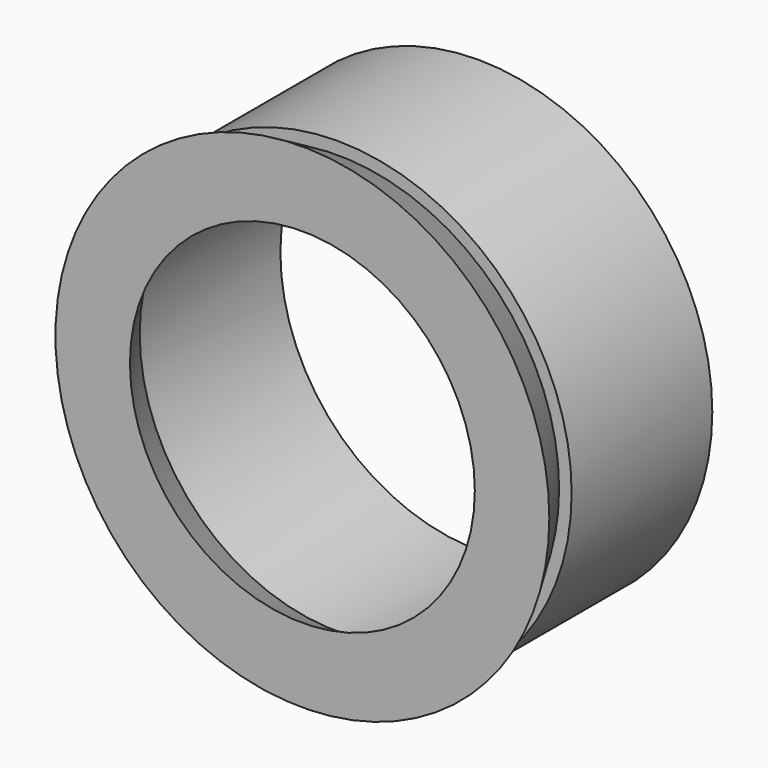
from build123d import *

# Parameters (mm, degrees)
F0_R     = 532.5
F1_DEPTH = 400
F2_R     = 450
F3_DEPTH = 400
F4_R     = 504
F4_R_2   = 450
F5_DEPTH = 100
F5_TAPER = -30


with BuildPart() as f1:
    # F0 (on Front) → F1 (new body)
    with BuildSketch(Plane.XZ):
        Circle(F0_R)
    extrude(amount=F1_DEPTH)

    # F2 (on face) → F3 (cut)
    with BuildSketch(Plane.XZ.offset(400)):
        Circle(F2_R)
    extrude(amount=-F3_DEPTH, mode=Mode.SUBTRACT)

    # F4 (on face) → F5 (join)
    with BuildSketch(Plane.XZ.offset(400)):
        Circle(F4_R)
        Circle(F4_R_2, mode=Mode.SUBTRACT)
    extrude(amount=F5_DEPTH, taper=F5_TAPER)


solid = f1.part
